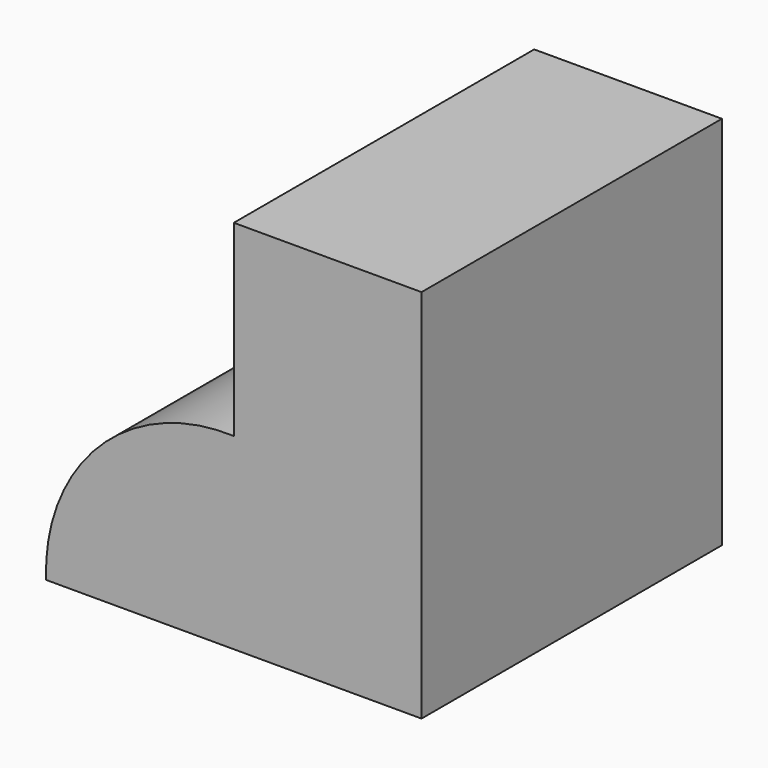
from build123d import *

# Parameters (mm, degrees)
F1_DEPTH = 50.8


with BuildPart() as f1:
    # F0 (on Front) → F1 (new body)
    with BuildSketch(Plane.XZ):
        with BuildLine():
            Line((-25.4, 0), (0, 0))
            Line((0, 0), (0, 50.8))
            Line((0, 50.8), (-25.4, 50.8))
            Line((-25.4, 50.8), (-25.4, 25.4))
            ThreePointArc((-25.4, 25.4), (-43.628445, 18.228445), (-50.8, 0))
            Line((-50.8, 0), (-25.4, 0))
        make_face()
        with BuildLine():
            Line((-25.4, 0), (0, 0))
            Line((0, 0), (0, 50.8))
            Line((0, 50.8), (-25.4, 50.8))
            Line((-25.4, 50.8), (-25.4, 25.4))
            ThreePointArc((-25.4, 25.4), (-43.628445, 18.228445), (-50.8, 0))
            Line((-50.8, 0), (-25.4, 0))
        make_face()
    extrude(amount=F1_DEPTH)


solid = f1.part
